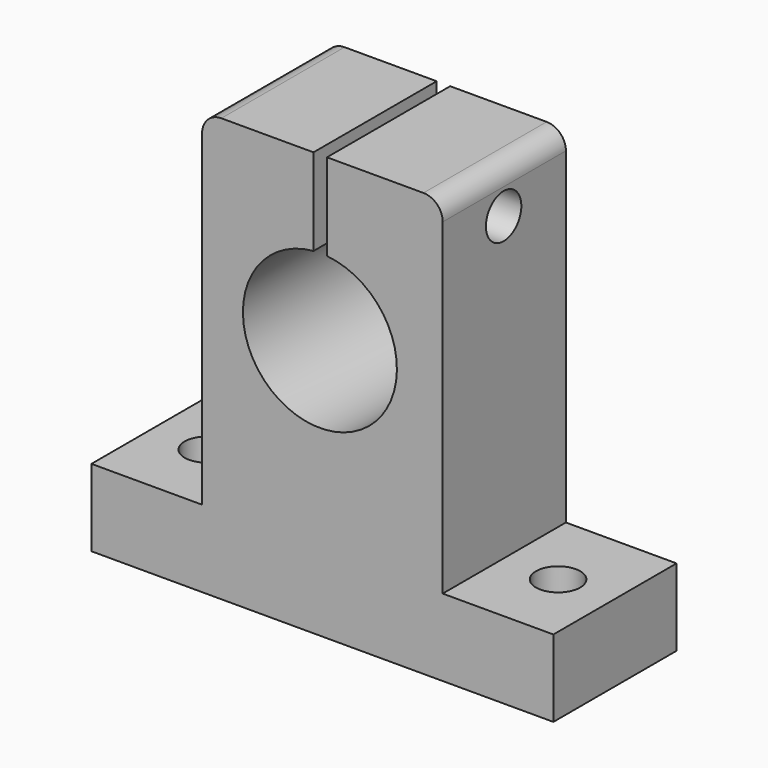
from build123d import *

# Parameters (mm, degrees)
CYLINDER003_R               = 2.3
CYLINDER003_DEPTH           = 40
CYLINDER003_PITCH_ANGLE     = 90
CYLINDER003_PLACEMENT_ANGLE = 7e-06
CYLINDER002_R               = 2.3
CYLINDER002_DEPTH           = 10
CYLINDER001_R               = 2.3
CYLINDER001_DEPTH           = 10
BOX002_W                    = 1.4
BOX002_H                    = 20
BOX002_DEPTH                = 20
CYLINDER_R                  = 8
CYLINDER_DEPTH              = 30
CYLINDER_ROLL_ANGLE         = -90
BOX001_W                    = 25
BOX001_H                    = 16
BOX001_DEPTH                = 36
BOX_W                       = 48
BOX_H                       = 16
BOX_DEPTH                   = 8
FILLET_R                    = 2
FILLET001_R                 = 2


with BuildPart() as cylinder003:
    # Cylinder003 → Cylinder003 (new body)
    with BuildSketch(Plane.XY):
        Circle(CYLINDER003_R)
    extrude(amount=CYLINDER003_DEPTH)


with BuildPart() as cylinder003_1:
    # Cylinder003 pitch: moved
    add(cylinder003.part.rotate(Axis((0, 0, 0), (0, 1, 0)), CYLINDER003_PITCH_ANGLE))


with BuildPart() as cylinder003_2:
    # Cylinder003 placement: moved
    add(cylinder003_1.part.moved(Location((3.687557, 7.912557, 39.313553))).rotate(Axis((3.687557, 7.912557, 39.313553), (0, 0, 1)), CYLINDER003_PLACEMENT_ANGLE))


with BuildPart() as cylinder002:
    # Cylinder002 → Cylinder002 (new body)
    with BuildSketch(Plane(origin=(42.25, 7.8, -0.597231), x_dir=(1, 0, 0), z_dir=(0, 0, 1))):
        Circle(CYLINDER002_R)
    extrude(amount=CYLINDER002_DEPTH)


with BuildPart() as cylinder001:
    # Cylinder001 → Cylinder001 (new body)
    with BuildSketch(Plane(origin=(5.75, 7.8, -0.597231), x_dir=(1, 0, 0), z_dir=(0, 0, 1))):
        Circle(CYLINDER001_R)
    extrude(amount=CYLINDER001_DEPTH)


with BuildPart() as box002:
    # Box002 → Box002 (new body)
    with BuildSketch(Plane(origin=(23.074221, -2.91866, 34.283958), x_dir=(1, 0, 0), z_dir=(0, 0, 1))):
        with Locations((0.7, 10)):
            Rectangle(BOX002_W, BOX002_H)
    extrude(amount=BOX002_DEPTH)


with BuildPart() as cylinder:
    # Cylinder → Cylinder (new body)
    with BuildSketch(Plane.XY):
        Circle(CYLINDER_R)
    extrude(amount=CYLINDER_DEPTH)


with BuildPart() as cylinder_1:
    # Cylinder roll: moved
    add(cylinder.part.rotate(Axis((0, 0, 0), (1, 0, 0)), CYLINDER_ROLL_ANGLE))


with BuildPart() as cylinder_2:
    # Cylinder placement: moved
    add(cylinder_1.part.moved(Location((23.7403, -8.80917, 27))))


with BuildPart() as box001:
    # Box001 → Box001 (new body)
    with BuildSketch(Plane(origin=(11.5, 0, 8), x_dir=(1, 0, 0), z_dir=(0, 0, 1))):
        with Locations((12.5, 8)):
            Rectangle(BOX001_W, BOX001_H)
    extrude(amount=BOX001_DEPTH)


with BuildPart() as fillet001:
    # Box → Box (new body)
    with BuildSketch(Plane.XY):
        with Locations((24, 8)):
            Rectangle(BOX_W, BOX_H)
    extrude(amount=BOX_DEPTH)

    # Fusion: union Box001
    add(box001.part)

    # Cut: cut Cylinder
    add(cylinder_2.part, mode=Mode.SUBTRACT)

    # Cut001: cut Box002
    add(box002.part, mode=Mode.SUBTRACT)

    # Cut002: cut Cylinder001
    add(cylinder001.part, mode=Mode.SUBTRACT)

    # Cut003: cut Cylinder002
    add(cylinder002.part, mode=Mode.SUBTRACT)

    # Cut004: cut Cylinder003
    add(cylinder003_2.part, mode=Mode.SUBTRACT)

    # Fillet
    fillet_edges = [fillet001.edges().sort_by_distance(p)[0] for p in [
        (36.5, 8, 44),
    ]]
    fillet(fillet_edges, radius=FILLET_R)

    # Fillet001
    fillet001_edges = [fillet001.edges().sort_by_distance(p)[0] for p in [
        (11.5, 8, 44),
    ]]
    fillet(fillet001_edges, radius=FILLET001_R)


solid = fillet001.part
